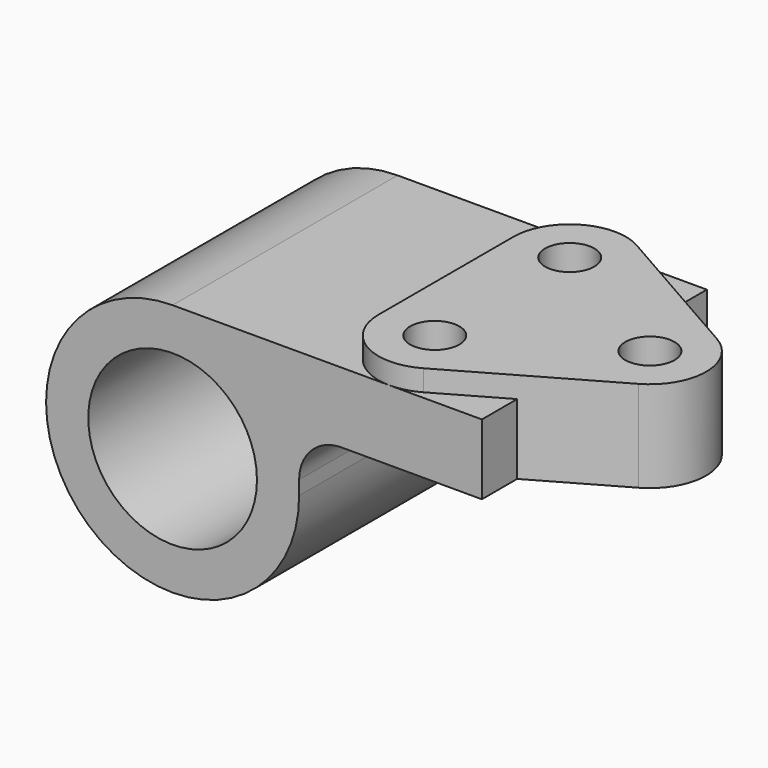
from build123d import *

# Parameters (mm, degrees)
F0_R          = 19.05
F1_DEPTH      = 31.75
F2_R          = 9.525
F4_DEPTH      = 4.7752
F4_DEPTH_BACK = 15.875
F5_R          = 5.5626
F6_DEPTH      = 25.4


with BuildPart() as f1:
    # F0 (on Front) → F1 (new body, symmetric)
    with BuildSketch(Plane.XZ):
        with BuildLine():
            ThreePointArc((-27.491588, 62.326304), (-47.697164, 13.545728), (1.083412, 33.751304))
            ThreePointArc((1.083412, 33.751304), (-7.286012, 53.95688), (-27.491588, 62.326304))
        make_face()
        with Locations((-27.491588, 33.751304)):
            Circle(F0_R, mode=Mode.SUBTRACT)
        with BuildLine():
            ThreePointArc((-27.491588, 62.326304), (-7.286012, 53.95688), (1.083412, 33.751304))
            Line((1.083412, 33.751304), (1.083412, 46.451304))
            Line((1.083412, 46.451304), (42.358412, 46.451304))
            Line((42.358412, 46.451304), (42.358412, 62.326304))
            Line((42.358412, 62.326304), (-27.491588, 62.326304))
        make_face()
    extrude(amount=F1_DEPTH, both=True)

    # F2
    f2_edges = [f1.edges().sort_by_distance(p)[0] for p in [
        (1.083412, 0, 46.451304),
    ]]
    fillet(f2_edges, radius=F2_R)

    # F3 (on face) → F4 (join, two sides)
    with BuildSketch(Plane.XY.offset(62.326304)) as f4_sk:
        with BuildLine():
            ThreePointArc((27.853196, 30.077721), (15.178669, 30.033835), (8.854041, 19.05))
            Line((8.854041, 19.05), (8.854041, -19.05))
            ThreePointArc((8.854041, -19.05), (15.178669, -30.033835), (27.853196, -30.077721))
            Line((27.853196, -30.077721), (61.203396, -11.027721))
            ThreePointArc((61.203396, -11.027721), (67.604241, 0), (61.203396, 11.027721))
            Line((61.203396, 11.027721), (27.853196, 30.077721))
        make_face()
    extrude(amount=F4_DEPTH)
    extrude(f4_sk.sketch, amount=-F4_DEPTH_BACK)

    # F5 (on face) → F6 (cut)
    with BuildSketch(Plane.XY.offset(67.101504)):
        with Locations((21.554041, 19.05)):
            Circle(F5_R)
        with Locations((21.554041, -19.05)):
            Circle(F5_R)
        with Locations((54.904241, 0)):
            Circle(F5_R)
    extrude(amount=-F6_DEPTH, mode=Mode.SUBTRACT)


solid = f1.part
